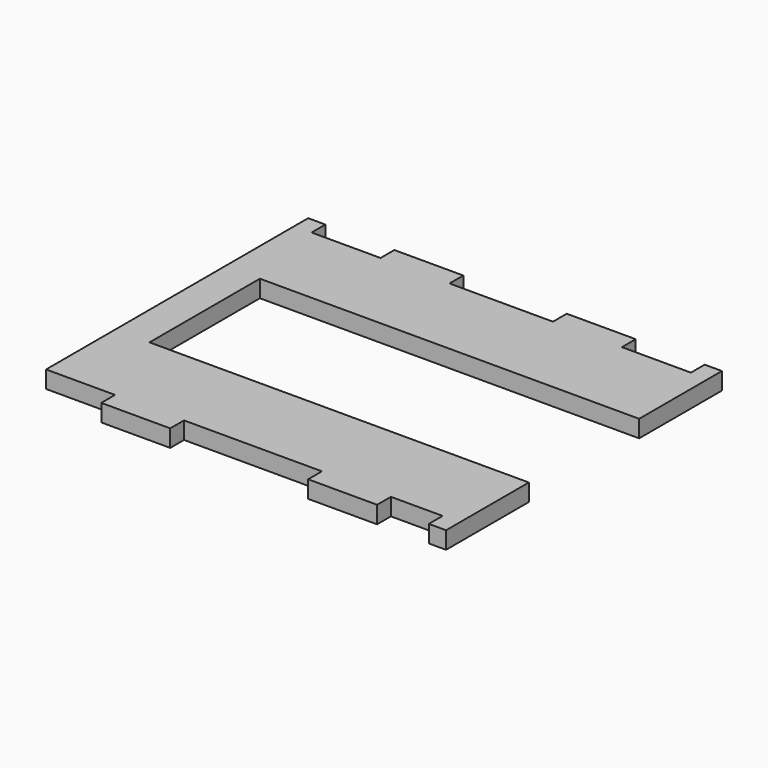
from build123d import *

# Parameters (mm, degrees)
F0_W     = 6.35
F0_H     = 6.35
F1_DEPTH = 6.35


with BuildPart() as f1:
    # F0 (on Top) → F1 (new body)
    with BuildSketch(Plane.XY):
        Polygon((76.2, 50.8), (76.2, 63.5), (69.85, 63.5), (69.85, 57.15), (63.5, 57.15), (57.15, 57.15), (50.8, 57.15), (44.45, 57.15), (44.45, 63.5), (38.1, 63.5), (31.75, 63.5), (25.4, 63.5), (19.05, 63.5), (19.05, 57.15), (-19.05, 57.15), (-19.05, 63.5), (-25.4, 63.5), (-31.75, 63.5), (-38.1, 63.5), (-44.45, 63.5), (-44.45, 57.15), (-69.85, 57.15), (-69.85, 63.5), (-76.2, 63.5), (-76.2, 50.8), (-76.2, 44.45), (-69.85, 44.45), (-69.85, 38.1), (-76.2, 38.1), (-76.2, 31.75), (-69.85, 31.75), (-69.85, 25.4), (-76.2, 25.4), (-76.2, 19.05), (-69.85, 19.05), (-69.85, 12.7), (-76.2, 12.7), (-76.2, 6.35), (-69.85, 6.35), (-69.85, 0), (-76.2, 0), (-76.2, -6.35), (-69.85, -6.35), (-69.85, -12.7), (-76.2, -12.7), (-76.2, -19.05), (-69.85, -19.05), (-69.85, -25.4), (-76.2, -25.4), (-76.2, -31.75), (-69.85, -31.75), (-69.85, -38.1), (-76.2, -38.1), (-76.2, -44.45), (-69.85, -44.45), (-69.85, -50.8), (-76.2, -50.8), (-76.2, -57.15), (-69.85, -57.15), (-50.8, -57.15), (-50.8, -63.5), (-44.45, -63.5), (-38.1, -63.5), (-31.75, -63.5), (-25.4, -63.5), (-25.4, -57.15), (-19.05, -57.15), (-12.7, -57.15), (-6.35, -57.15), (0, -57.15), (6.35, -57.15), (12.7, -57.15), (19.05, -57.15), (25.4, -57.15), (25.4, -63.5), (31.75, -63.5), (38.1, -63.5), (44.45, -63.5), (50.8, -63.5), (50.8, -57.15), (57.15, -57.15), (69.85, -57.15), (69.85, -63.5), (76.2, -63.5), (76.2, -50.8), (76.2, -44.45), (76.2, -38.1), (76.2, -31.75), (76.2, -25.4), (-63.5, -25.4), (-63.5, 25.4), (76.2, 25.4), (76.2, 31.75), (76.2, 38.1), (76.2, 44.45), align=None)
        with Locations((-73.025, 41.275)):
            Rectangle(F0_W, F0_H)
        with Locations((-73.025, 28.575)):
            Rectangle(F0_W, F0_H)
        with Locations((-73.025, 15.875)):
            Rectangle(F0_W, F0_H)
        with Locations((-73.025, 3.175)):
            Rectangle(F0_W, F0_H)
        with Locations((-73.025, -9.525)):
            Rectangle(F0_W, F0_H)
        with Locations((-73.025, -22.225)):
            Rectangle(F0_W, F0_H)
        with Locations((-73.025, -34.925)):
            Rectangle(F0_W, F0_H)
        with Locations((-73.025, -47.625)):
            Rectangle(F0_W, F0_H)
    extrude(amount=F1_DEPTH)


solid = f1.part
